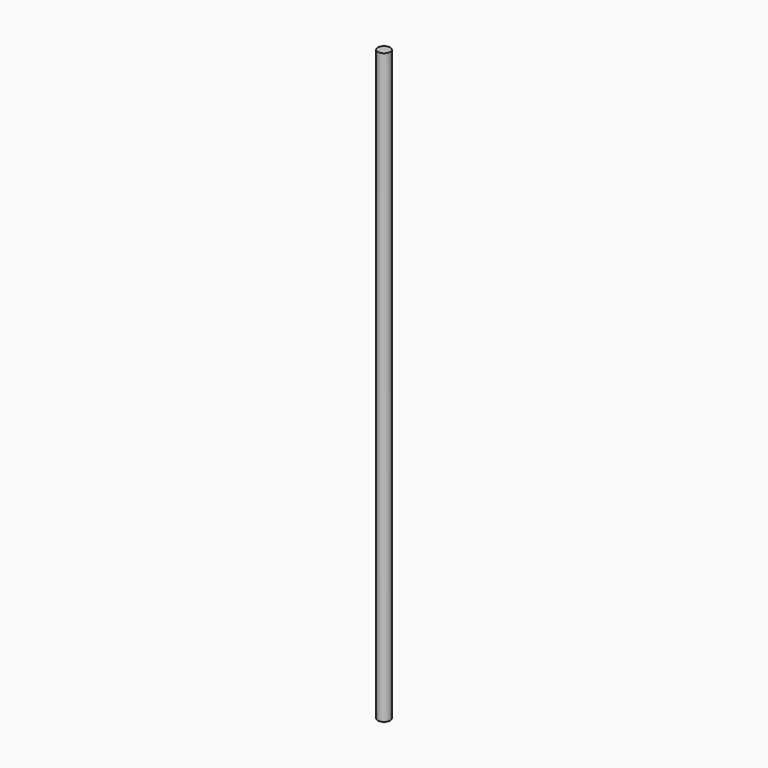
from build123d import *

# Parameters (mm, degrees)
F0_R      = 1.5875
F1_DEPTH  = 63.5
F1_FACE_R = 1.5875
F2_DEPTH  = 25.4


with BuildPart() as f1:
    # F0 (on Top) → F1 (new body, symmetric)
    with BuildSketch(Plane.XY):
        Circle(F0_R)
    extrude(amount=F1_DEPTH, both=True)

    # F1_face (on face) → F2 (join)
    with BuildSketch(Plane.XY.offset(63.5)):
        Circle(F1_FACE_R)
    extrude(amount=F2_DEPTH)


solid = f1.part
